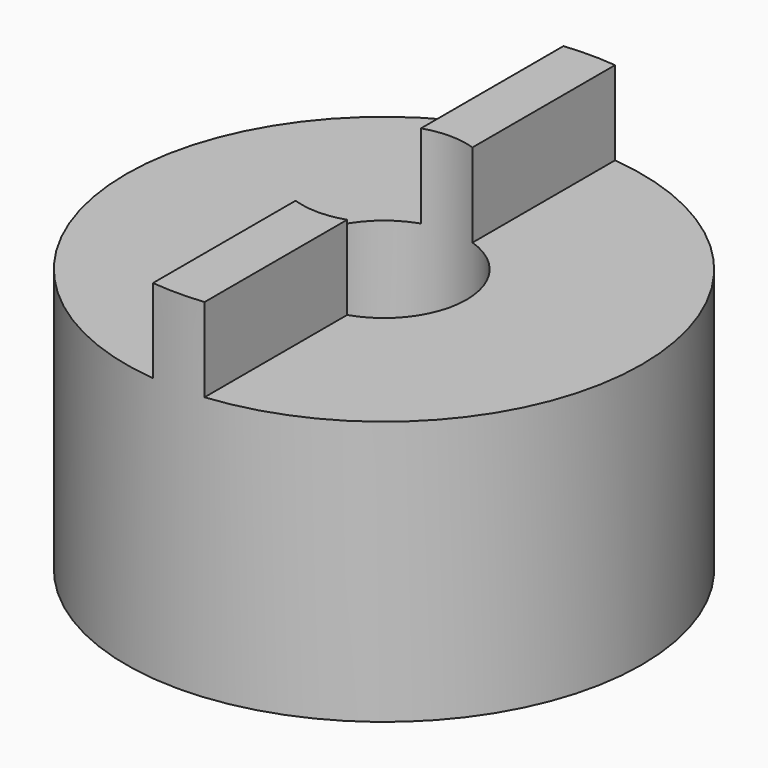
from build123d import *

# Parameters (mm, degrees)
F0_R     = 10
F0_R_2   = 3.2
F2_DEPTH = 13.5
F3_DEPTH = 25
F4_DEPTH = 11.4


with BuildPart() as f2:
    # F0 (on Top) → F2 (new body)
    with BuildSketch(Plane.XY):
        Circle(F0_R)
        Circle(F0_R_2, mode=Mode.SUBTRACT)
    extrude(amount=F2_DEPTH)

    # F1 (on Front) → F3 (cut)
    with BuildSketch(Plane.XZ):
        Polygon((-1, 10.25), (-1, 12.5), (-1, 15.121175), (-10.774387, 15.121175), (-10.774387, 12.5), (-10.774387, 10.25), (-3, 10.25), align=None)
        Polygon((1, 15.121175), (1, 12.5), (1, 10.25), (3, 10.25), (10.738912, 10.25), (10.738912, 12.5), (10.738912, 15.121175), align=None)
    extrude(amount=-F3_DEPTH, mode=Mode.SUBTRACT)

    # F1 (on Front) → F4 (cut)
    with BuildSketch(Plane.XZ):
        Polygon((-1, 10.25), (-1, 12.5), (-1, 15.121175), (-10.774387, 15.121175), (-10.774387, 12.5), (-10.774387, 10.25), (-3, 10.25), align=None)
        Polygon((1, 15.121175), (1, 12.5), (1, 10.25), (3, 10.25), (10.738912, 10.25), (10.738912, 12.5), (10.738912, 15.121175), align=None)
    extrude(amount=F4_DEPTH, mode=Mode.SUBTRACT)


solid = f2.part
